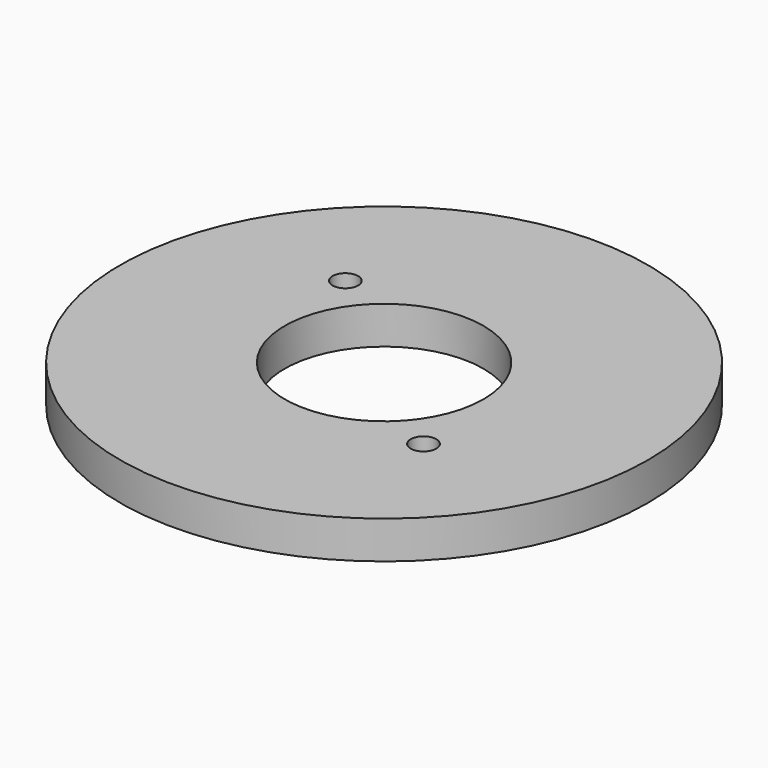
from build123d import *

# Parameters (mm, degrees)
F0_R      = 44.45
F1_DEPTH  = 6.35
F2_R      = 16.7386
F3_DEPTH  = 6.35
F7_R      = 2.159
F8_DEPTH  = 6.35
F9_R      = 2.159
F10_DEPTH = 6.35


with BuildPart() as f1:
    # F0 (on Top) → F1 (new body)
    with BuildSketch(Plane.XY):
        Circle(F0_R)
    extrude(amount=F1_DEPTH)

    # F2 (on face) → F3 (cut)
    with BuildSketch(Plane.XY.offset(6.35)):
        Circle(F2_R)
    extrude(amount=-F3_DEPTH, mode=Mode.SUBTRACT)

    # F7 (on face) → F8 (cut)
    with BuildSketch(Plane.XY.offset(6.35)):
        with Locations((-18.529808, 15.005284)):
            Circle(F7_R)
    extrude(amount=-F8_DEPTH, mode=Mode.SUBTRACT)

    # F9 (on face) → F10 (cut)
    with BuildSketch(Plane.XY.offset(6.35)):
        with Locations((18.525945, -14.854639)):
            Circle(F9_R)
    extrude(amount=-F10_DEPTH, mode=Mode.SUBTRACT)


solid = f1.part
